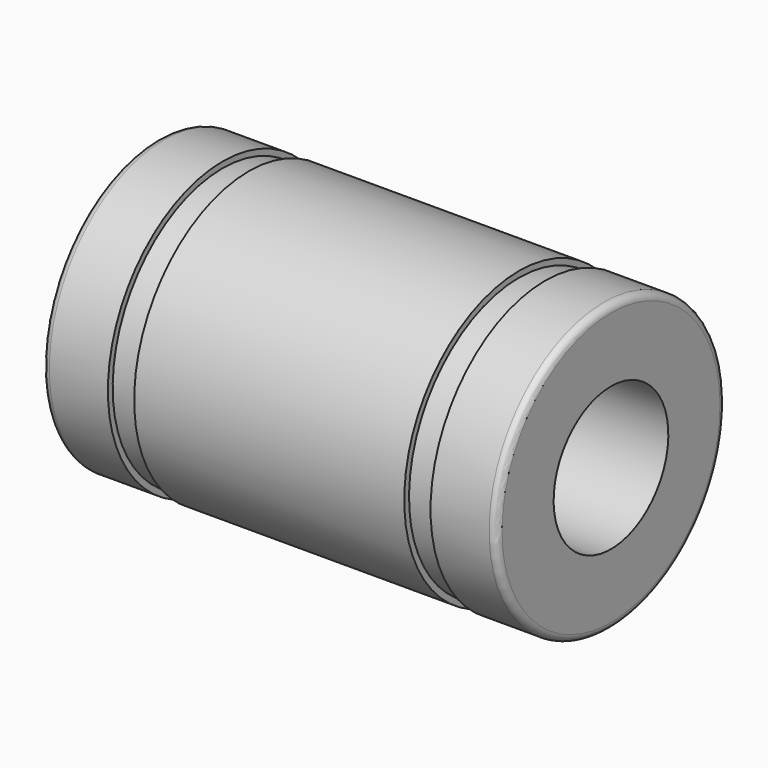
from build123d import *

# Parameters (mm, degrees)
F3_R = 0.3


with BuildPart() as f2:
    # F1 (on Front) → F2 (revolve)
    with BuildSketch(Plane.XZ):
        Polygon((-9.5, 6), (-9.5, 3), (9.5, 3), (9.5, 6), (6.75, 6), (6.75, 5.75), (5.65, 5.75), (5.65, 6), (-5.65, 6), (-5.65, 5.75), (-6.75, 5.75), (-6.75, 6), align=None)
    revolve(axis=Axis((0, 0, 0), (1, 0, 0)))

    # F3
    f3_edges = [f2.edges().sort_by_distance(p)[0] for p in [
        (-9.5, 0, -6),
        (9.5, 0, -6),
    ]]
    fillet(f3_edges, radius=F3_R)


solid = f2.part
